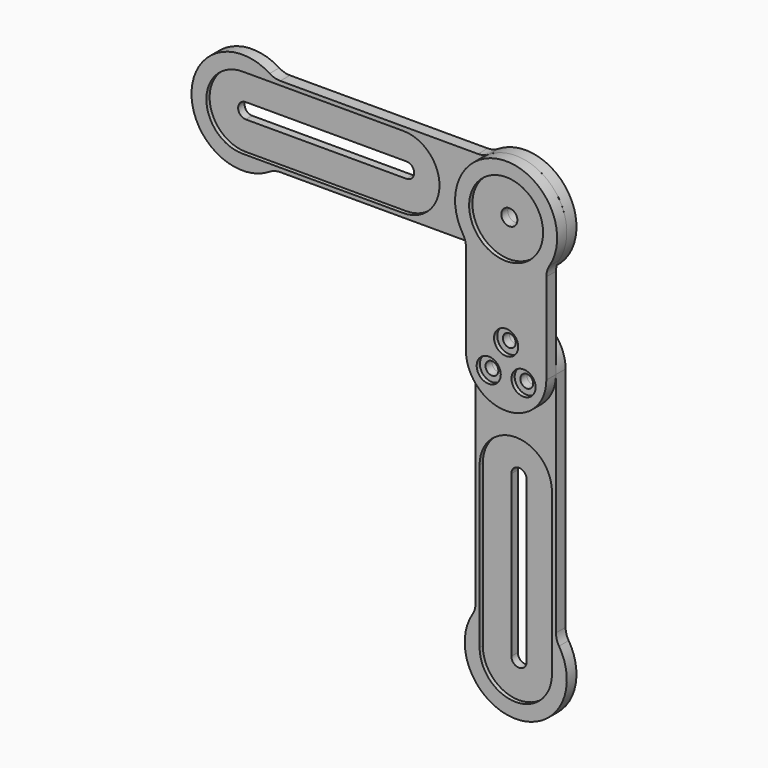
from build123d import *

# Parameters (mm, degrees)
F0_R      = 2
F1_DEPTH  = 3
F3_DEPTH  = 1
F4_R      = 1.6
F4_R_2    = 2
F5_DEPTH  = 3
F6_R      = 3
F6_R_2    = 9.2
F7_DEPTH  = 1
F8_R      = 1.6
F9_DEPTH  = 3
F11_DEPTH = 1
F12_R     = 5
F12_2_R   = 5
F12_3_R   = 5
F13_R     = 1.25
F13_R_2   = 0.75
F14_DEPTH = 0.5


with BuildPart() as f1:
    # F0 (on Front) → F1 (new body)
    with BuildSketch(Plane.XZ):
        with BuildLine():
            ThreePointArc((60.1512069896, 0), (80.68, 10), (60.1512069896, 20))
            Line((60.1512069896, 20), (7.8287930104, 20))
            ThreePointArc((7.8287930104, 20), (-12.7, 10), (7.8287930104, 0))
            Line((7.8287930104, 0), (60.1512069896, 0))
        make_face()
        with BuildLine():
            ThreePointArc((0, 8.1), (-1.9, 10), (0, 11.9))
            Line((0, 11.9), (40, 11.9))
            ThreePointArc((40, 11.9), (41.9, 10), (40, 8.1))
            Line((40, 8.1), (0, 8.1))
        make_face(mode=Mode.SUBTRACT)
        with Locations((67.98, 10)):
            Circle(F0_R, mode=Mode.SUBTRACT)
    extrude(amount=F1_DEPTH)

    # F2 (on face) → F3 (cut)
    with BuildSketch(Plane.XZ.offset(3)):
        with BuildLine():
            ThreePointArc((40, 1), (49, 10), (40, 19))
            Line((40, 19), (0, 19))
            ThreePointArc((0, 19), (-9, 10), (0, 1))
            Line((0, 1), (40, 1))
        make_face()
        with BuildLine():
            ThreePointArc((0, 8.1), (-1.9, 10), (0, 11.9))
            Line((0, 11.9), (40, 11.9))
            ThreePointArc((40, 11.9), (41.9, 10), (40, 8.1))
            Line((40, 8.1), (0, 8.1))
        make_face(mode=Mode.SUBTRACT)
    extrude(amount=-F3_DEPTH, mode=Mode.SUBTRACT)

    # F12
    f12_edges = [f1.edges().sort_by_distance(p)[0] for p in [
        (7.828793, -1.5, 20),
        (7.828793, -1.5, 0),
        (60.151207, -1.5, 0),
        (60.151207, -1.5, 20),
    ]]
    fillet(f12_edges, radius=F12_R)

    # F13 (on face) → F14 (join)
    with BuildSketch(Plane.XZ.offset(3)):
        with Locations((67.98, 18.5)):
            Circle(F13_R)
        with Locations((63.73, 17.3612159322)):
            Circle(F13_R)
        with Locations((60.6187840678, 14.25)):
            Circle(F13_R)
        with Locations((59.48, 10)):
            Circle(F13_R)
        with Locations((60.6187840678, 5.75)):
            Circle(F13_R)
        with Locations((63.73, 2.6387840678)):
            Circle(F13_R)
        with Locations((67.98, 1.5)):
            Circle(F13_R)
        with Locations((72.23, 2.6387840678)):
            Circle(F13_R)
        with Locations((75.3412159322, 5.75)):
            Circle(F13_R)
        with Locations((76.48, 10)):
            Circle(F13_R)
        with Locations((75.3412159322, 14.25)):
            Circle(F13_R)
        with Locations((72.23, 17.3612159322)):
            Circle(F13_R)
        with Locations((69.144685703, 14.3466662183)):
            Circle(F13_R_2)
        with Locations((66.815314297, 14.3466662183)):
            Circle(F13_R_2)
        with Locations((64.7980194847, 13.1819805153)):
            Circle(F13_R_2)
        with Locations((63.6333337817, 11.164685703)):
            Circle(F13_R_2)
        with Locations((63.6333337817, 8.835314297)):
            Circle(F13_R_2)
        with Locations((64.7980194847, 6.8180194847)):
            Circle(F13_R_2)
        with Locations((66.815314297, 5.6533337817)):
            Circle(F13_R_2)
        with Locations((69.144685703, 5.6533337817)):
            Circle(F13_R_2)
        with Locations((71.1619805153, 6.8180194847)):
            Circle(F13_R_2)
        with Locations((72.3266662183, 8.835314297)):
            Circle(F13_R_2)
        with Locations((72.3266662183, 11.164685703)):
            Circle(F13_R_2)
        with Locations((71.1619805153, 13.1819805153)):
            Circle(F13_R_2)
    extrude(amount=F14_DEPTH)


with BuildPart() as f5:
    # F4 (on face) → F5 (new body)
    with BuildSketch(Plane.XZ.offset(3)):
        with BuildLine():
            Line((77.98, -22), (77.98, 2.1712069896))
            ThreePointArc((77.98, 2.1712069896), (67.98, 22.7), (57.98, 2.1712069896))
            Line((57.98, 2.1712069896), (57.98, -22))
            ThreePointArc((57.98, -22), (67.98, -32), (77.98, -22))
        make_face()
        with Locations((63.6498729811, -24.5)):
            Circle(F4_R, mode=Mode.SUBTRACT)
        with Locations((67.98, -17)):
            Circle(F4_R, mode=Mode.SUBTRACT)
        with Locations((72.3101270189, -24.5)):
            Circle(F4_R, mode=Mode.SUBTRACT)
        with Locations((67.98, 10)):
            Circle(F4_R_2, mode=Mode.SUBTRACT)
    extrude(amount=F5_DEPTH)

    # F6 (on face) → F7 (cut)
    with BuildSketch(Plane.XZ.offset(6)):
        with Locations((67.98, -17)):
            Circle(F6_R)
        with Locations((63.6498729811, -24.5)):
            Circle(F6_R)
        with Locations((72.3101270189, -24.5)):
            Circle(F6_R)
        with Locations((67.98, 10)):
            Circle(F6_R_2)
    extrude(amount=-F7_DEPTH, mode=Mode.SUBTRACT)

    # F12#2
    f12_2_edges = [f5.edges().sort_by_distance(p)[0] for p in [
        (57.98, -4.5, 2.171207),
        (77.98, -4.5, 2.171207),
    ]]
    fillet(f12_2_edges, radius=F12_2_R)


with BuildPart() as f9:
    # F8 (on face) → F9 (new body)
    with BuildSketch(Plane(origin=(0, -3, 0), x_dir=(-1, 0, 0), z_dir=(0, 1, 0))):
        with BuildLine():
            ThreePointArc((-57.98, -22), (-67.98, -12), (-77.98, -22))
            Line((-77.98, -22), (-77.98, -80.1712069896))
            ThreePointArc((-77.98, -80.1712069896), (-67.98, -100.7), (-57.98, -80.1712069896))
            Line((-57.98, -80.1712069896), (-57.98, -22))
        make_face()
        with BuildLine():
            Line((-66.08, -48), (-66.08, -88))
            ThreePointArc((-66.08, -88), (-67.98, -89.9), (-69.88, -88))
            Line((-69.88, -88), (-69.88, -48))
            ThreePointArc((-69.88, -48), (-67.98, -46.1), (-66.08, -48))
        make_face(mode=Mode.SUBTRACT)
        with Locations((-72.3101270189, -24.5)):
            Circle(F8_R, mode=Mode.SUBTRACT)
        with Locations((-63.6498729811, -24.5)):
            Circle(F8_R, mode=Mode.SUBTRACT)
        with Locations((-67.98, -17)):
            Circle(F8_R, mode=Mode.SUBTRACT)
    extrude(amount=F9_DEPTH)

    # F10 (on face) → F11 (cut)
    with BuildSketch(Plane.XZ.offset(3)):
        with BuildLine():
            Line((76.98, -88), (76.98, -48))
            ThreePointArc((76.98, -48), (67.98, -39), (58.98, -48))
            Line((58.98, -48), (58.98, -88))
            ThreePointArc((58.98, -88), (67.98, -97), (76.98, -88))
        make_face()
    extrude(amount=-F11_DEPTH, mode=Mode.SUBTRACT)

    # F12#3
    f12_3_edges = [f9.edges().sort_by_distance(p)[0] for p in [
        (77.98, -1.5, -80.171207),
        (57.98, -1.5, -80.171207),
    ]]
    fillet(f12_3_edges, radius=F12_3_R)


solid = Compound([f1.part, f5.part, f9.part])
